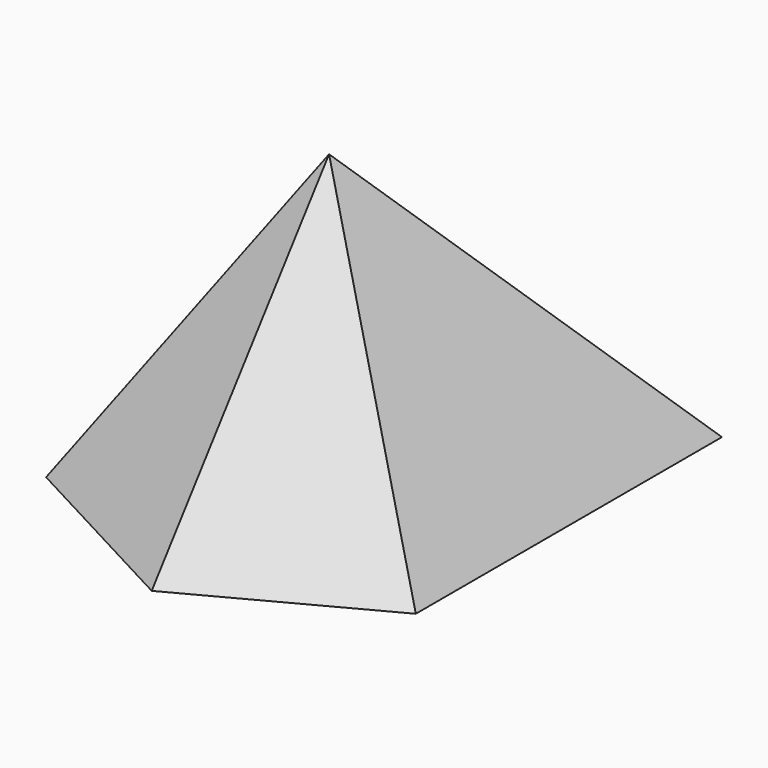
from build123d import *


with BuildPart() as f3:
    # F0 (on Top) → F3 section 0
    with BuildSketch(Plane.XY, mode=Mode.PRIVATE) as f3_s0:
        Polygon((-62.689565, 94.493471), (-62.689565, 20.037804), (-62.689565, -41.831478), (0, -75.334273), (62.948875, -41.831478), (62.948875, 16.272474), (62.948875, 88.186271), (16.496239, 26.913123), (-11.309187, 26.913123), align=None)
    loft([f3_s0.sketch, Vertex(0, 0, 100)])


solid = f3.part
